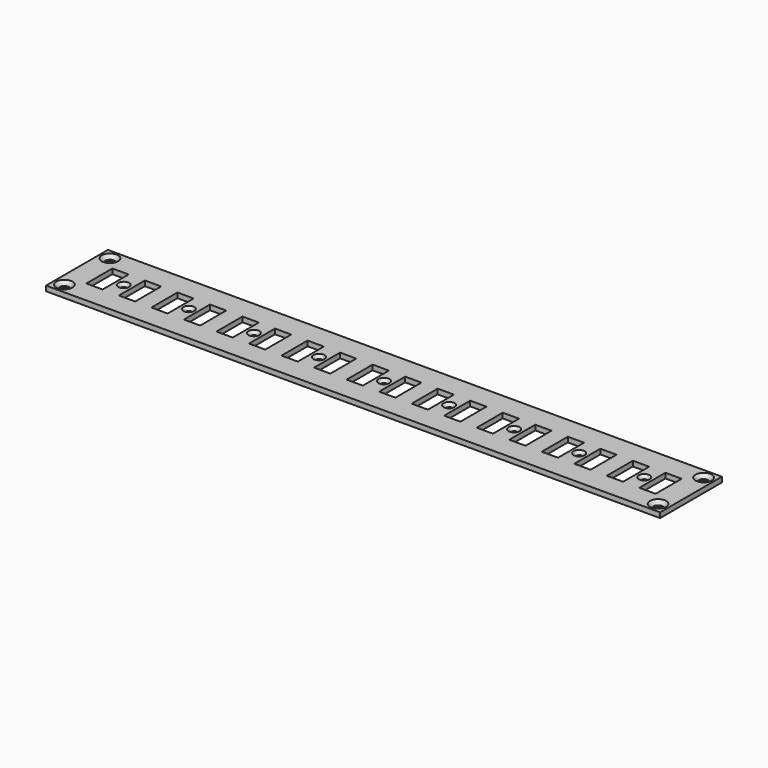
from build123d import *

# Parameters (mm, degrees)
F0_W           = 302
F0_H           = 38
F0_W_2         = 8
F0_H_2         = 16
F1_DEPTH       = 2.5
F2_D           = 2.5
F2_CSINK_D     = 5.4
F2_CSINK_ANGLE = 90
F3_D           = 4.5
F3_CSINK_D     = 8
F3_CSINK_ANGLE = 90
F4_DEPTH       = 2.501


with BuildPart() as f1:
    # F0 (on Top) → F1 (new body)
    with BuildSketch(Plane.XY):
        Rectangle(F0_W, F0_H)
        with Locations((-136, 0)):
            Rectangle(F0_W_2, F0_H_2, mode=Mode.SUBTRACT)
        with Locations((-120, 0)):
            Rectangle(F0_W_2, F0_H_2, mode=Mode.SUBTRACT)
        with Locations((-104, 0)):
            Rectangle(F0_W_2, F0_H_2, mode=Mode.SUBTRACT)
        with Locations((-88, 0)):
            Rectangle(F0_W_2, F0_H_2, mode=Mode.SUBTRACT)
        with Locations((-72, 0)):
            Rectangle(F0_W_2, F0_H_2, mode=Mode.SUBTRACT)
        with Locations((-56, 0)):
            Rectangle(F0_W_2, F0_H_2, mode=Mode.SUBTRACT)
        with Locations((-40, 0)):
            Rectangle(F0_W_2, F0_H_2, mode=Mode.SUBTRACT)
        with Locations((-24, 0)):
            Rectangle(F0_W_2, F0_H_2, mode=Mode.SUBTRACT)
        with Locations((-8, 0)):
            Rectangle(F0_W_2, F0_H_2, mode=Mode.SUBTRACT)
        with Locations((8, 0)):
            Rectangle(F0_W_2, F0_H_2, mode=Mode.SUBTRACT)
        with Locations((24, 0)):
            Rectangle(F0_W_2, F0_H_2, mode=Mode.SUBTRACT)
        with Locations((40, 0)):
            Rectangle(F0_W_2, F0_H_2, mode=Mode.SUBTRACT)
        with Locations((56, 0)):
            Rectangle(F0_W_2, F0_H_2, mode=Mode.SUBTRACT)
        with Locations((72, 0)):
            Rectangle(F0_W_2, F0_H_2, mode=Mode.SUBTRACT)
        with Locations((88, 0)):
            Rectangle(F0_W_2, F0_H_2, mode=Mode.SUBTRACT)
        with Locations((104, 0)):
            Rectangle(F0_W_2, F0_H_2, mode=Mode.SUBTRACT)
        with Locations((120, 0)):
            Rectangle(F0_W_2, F0_H_2, mode=Mode.SUBTRACT)
        with Locations((136, 0)):
            Rectangle(F0_W_2, F0_H_2, mode=Mode.SUBTRACT)
    extrude(amount=-F1_DEPTH)

    # F2 (through all)
    with Locations(Plane.XY):
        with Locations((-128, 0), (-96, 0), (-64, 0), (-32, 0), (0, 0), (32, 0), (64, 0), (96, 0), (128, 0)):
            CounterSinkHole(F2_D / 2, F2_CSINK_D / 2, counter_sink_angle=F2_CSINK_ANGLE)

    # F3 (through all)
    with Locations(Plane.XY):
        with Locations((-146, 14), (-146, -14), (146, 14), (146, -14)):
            CounterSinkHole(F3_D / 2, F3_CSINK_D / 2, counter_sink_angle=F3_CSINK_ANGLE)

    # F0 (on Top) → F4 (cut, through all)
    with BuildSketch(Plane.XY):
        with Locations((-136, 0)):
            Rectangle(F0_W_2, F0_H_2)
    extrude(amount=-F4_DEPTH, mode=Mode.SUBTRACT)


solid = f1.part
